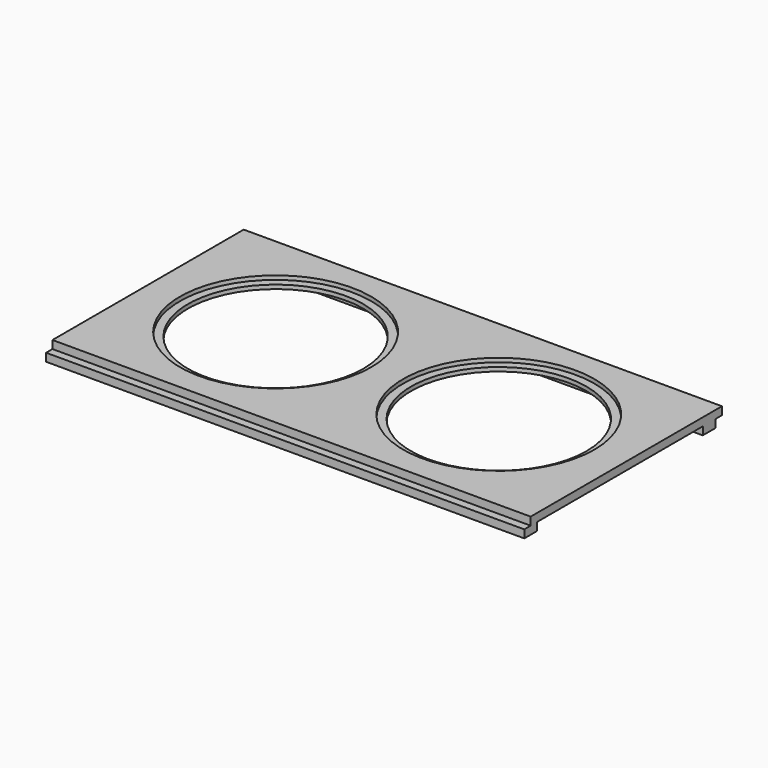
from build123d import *

# Parameters (mm, degrees)
F0_W     = 600
F0_H     = 300
F0_R     = 120
F1_DEPTH = 10
F0_R_2   = 110
F2_DEPTH = 5
F3_W     = 600
F3_H     = 10
F4_DEPTH = 10


with BuildPart() as f1:
    # F0 (on Top) → F1 (new body)
    with BuildSketch(Plane.XY):
        Rectangle(F0_W, F0_H)
        with Locations((-140, 0)):
            Circle(F0_R, mode=Mode.SUBTRACT)
        with Locations((140, 0)):
            Circle(F0_R, mode=Mode.SUBTRACT)
    extrude(amount=F1_DEPTH)

    # F0 (on Top) → F2 (join)
    with BuildSketch(Plane.XY):
        with Locations((-140, 0)):
            Circle(F0_R)
        with Locations((-140, 0)):
            Circle(F0_R_2, mode=Mode.SUBTRACT)
        with Locations((140, 0)):
            Circle(F0_R)
        with Locations((140, 0)):
            Circle(F0_R_2, mode=Mode.SUBTRACT)
    extrude(amount=F2_DEPTH)

    # F3 (on face) → F4 (join)
    with BuildSketch(Plane.XY):
        with Locations((0, -145)):
            Rectangle(F3_W, F3_H)
        with Locations((0, -155)):
            Rectangle(F3_W, F3_H)
        Polygon((300, 140), (-300, 140), (-300, 120), (-140, 120), (140, 120), (300, 120), align=None)
    extrude(amount=-F4_DEPTH)


solid = f1.part
